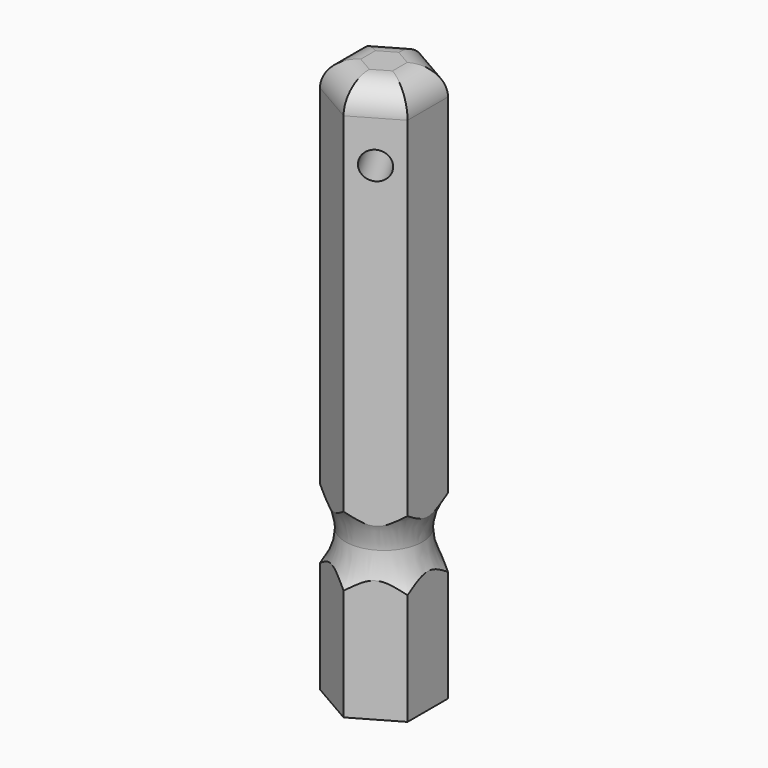
from build123d import *

# Parameters (mm, degrees)
F1_DEPTH = 40
F2_R     = 1
F3_DEPTH = 7.851
F6_R     = 4
F8_R     = 2


with BuildPart() as f1:
    # F0 (on Top) → F1 (new body)
    with BuildSketch(Plane.XY):
        Polygon((0, 3.62576), (-3.14, 1.81288), (-3.14, -1.81288), (0, -3.62576), (3.14, -1.81288), (3.14, 1.81288), align=None)
    extrude(amount=F1_DEPTH)

    # F2 (on face) → F3 (cut, through all)
    with BuildSketch(Plane(origin=(1.57, -2.71932, 0), x_dir=(0.866025, 0.5, 0), z_dir=(0.5, -0.866025, 0))):
        with Locations((0, 35)):
            Circle(F2_R)
    extrude(amount=-F3_DEPTH, mode=Mode.SUBTRACT)

    # F7: sweep along a path in F5
    with BuildLine(Plane.XY.offset(10.5)) as f7_path:
        CenterArc((0, 0), 6.75, 0, 360)
    # F6 (on Front) → F7 (sweep, cut)
    with BuildSketch(Plane.XZ):
        with Locations((-6.75, 10.5)):
            Circle(F6_R)
    sweep(path=f7_path.line, mode=Mode.SUBTRACT)

    # F8
    f8_edges = [f1.edges().sort_by_distance(p)[0] for p in [
        (1.57, -2.71932, 40),
        (-1.57, -2.71932, 40),
        (3.14, 0, 40),
        (-1.57, 2.71932, 40),
        (-3.14, 0, 40),
        (1.57, 2.71932, 40),
    ]]
    fillet(f8_edges, radius=F8_R)


solid = f1.part
